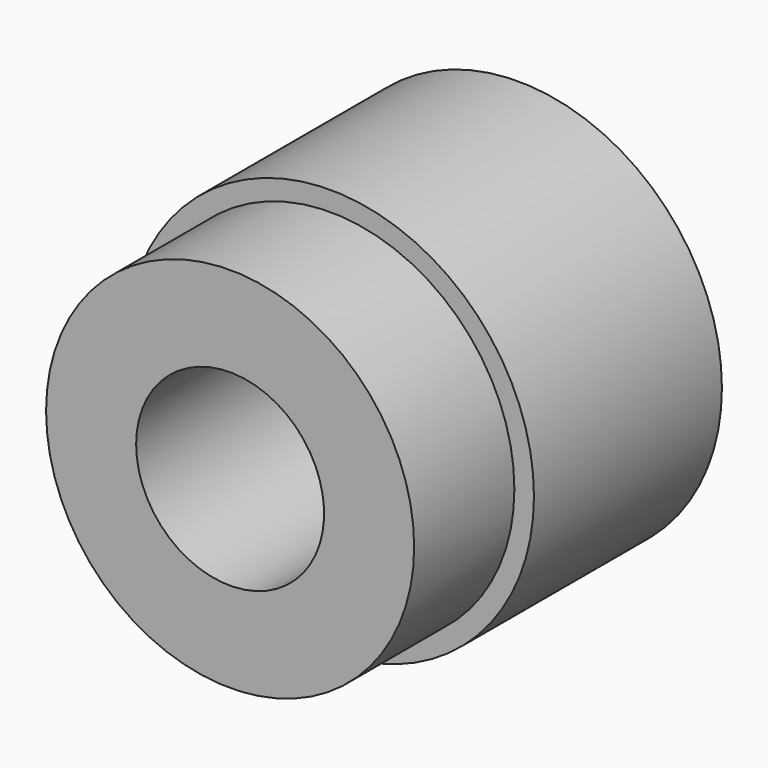
from build123d import *

# Parameters (mm, degrees)
F0_R     = 11.75
F1_DEPTH = 8
F2_R     = 13
F3_DEPTH = 15
F4_R     = 6
F5_DEPTH = 25


with BuildPart() as f1:
    # F0 (on Front) → F1 (new body)
    with BuildSketch(Plane.XZ):
        Circle(F0_R)
    extrude(amount=F1_DEPTH)

    # F2 (on face) → F3 (join)
    with BuildSketch(Plane(origin=(0, 0, 0), x_dir=(-1, 0, 0), z_dir=(0, 1, 0))):
        Circle(F2_R)
    extrude(amount=F3_DEPTH)

    # F4 (on face) → F5 (cut)
    with BuildSketch(Plane(origin=(0, 15, 0), x_dir=(-1, 0, 0), z_dir=(0, 1, 0))):
        Circle(F4_R)
    extrude(amount=-F5_DEPTH, mode=Mode.SUBTRACT)


solid = f1.part
